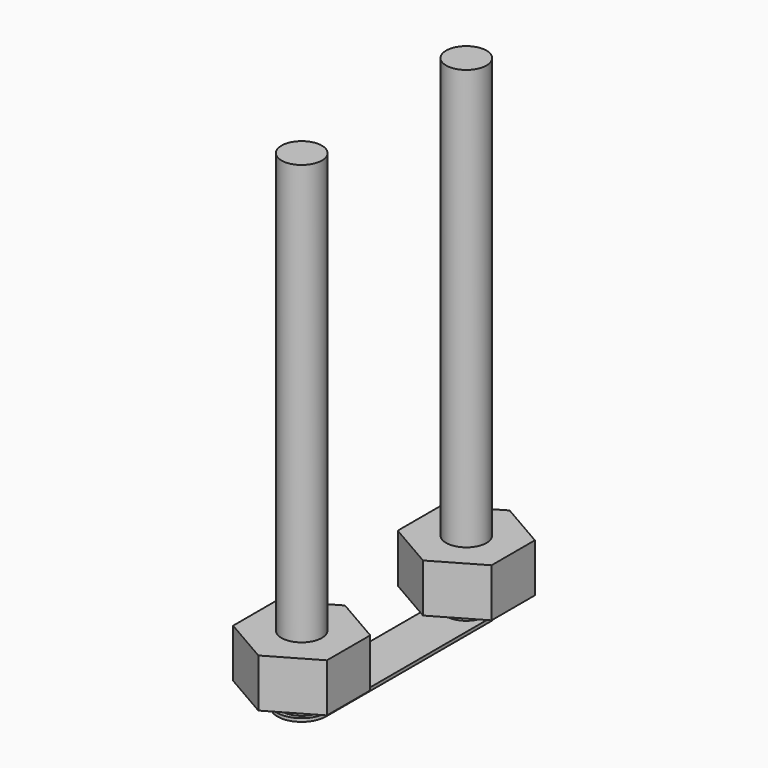
from build123d import *

# Parameters (mm, degrees)
PAD004_DEPTH   = 0.2
SKETCH003_R    = 1.25
PAD005_DEPTH   = 30
PRISM_DEPTH    = 3
PRISM001_DEPTH = 3


with BuildPart() as part:
    # Sketch008 → Pad004 (new body)
    with BuildSketch(Plane.XY.offset(-1)):
        with BuildLine():
            ThreePointArc((-1.5, 0), (0, -1.5), (1.5, 0))
            Line((1.5, 12.73), (1.5, 0))
            ThreePointArc((1.5, 12.73), (0, 14.23), (-1.5, 12.73))
            Line((-1.5, 12.73), (-1.5, 0))
        make_face()
    extrude(amount=-PAD004_DEPTH)

    # Sketch003 → Pad005 (join)
    with BuildSketch(Plane.XY.offset(-1)):
        Circle(SKETCH003_R)
        with Locations((0, 12.73)):
            Circle(SKETCH003_R)
    extrude(amount=PAD005_DEPTH)

    # Prism → Prism (join)
    with BuildSketch(Plane(origin=(0, 0, 0), x_dir=(0, 1, 0), z_dir=(0, 0, 1))):
        Polygon((3.35, 0), (1.675, 2.901185), (-1.675, 2.901185), (-3.35, 0), (-1.675, -2.901185), (1.675, -2.901185), align=None)
    extrude(amount=PRISM_DEPTH)

    # Prism001 → Prism001 (join)
    with BuildSketch(Plane(origin=(0, 12.73, 0), x_dir=(0, 1, 0), z_dir=(0, 0, 1))):
        Polygon((3.35, 0), (1.675, 2.901185), (-1.675, 2.901185), (-3.35, 0), (-1.675, -2.901185), (1.675, -2.901185), align=None)
    extrude(amount=PRISM001_DEPTH)


solid = part.part
